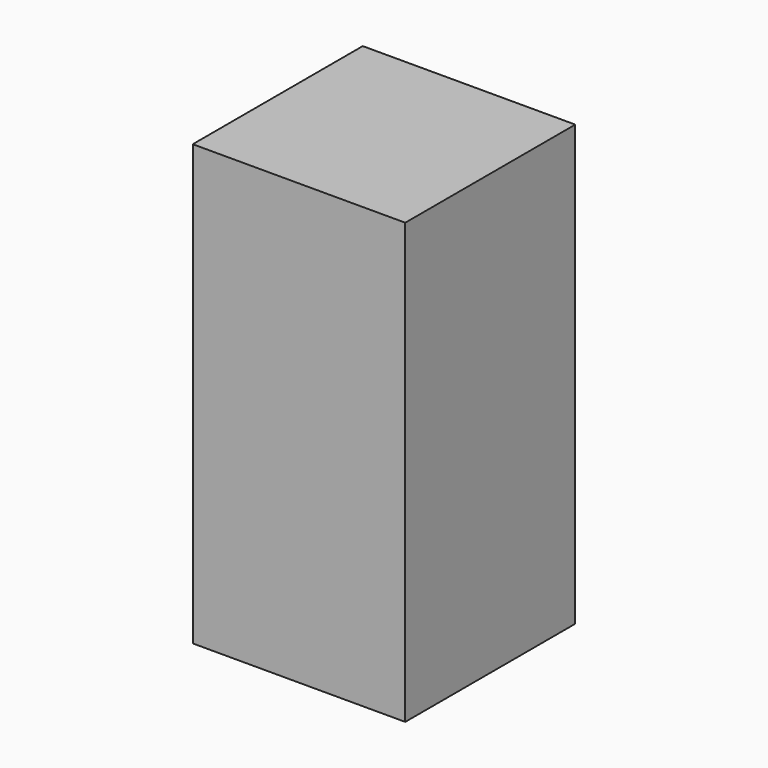
from build123d import *

# Parameters (mm, degrees)
F0_W     = 1.5
F0_H     = 1.5
F0_H_2   = 437
F0_W_2   = 437
F1_DEPTH = 910
F2_W     = 437
F2_H     = 437
F3_DEPTH = 1.5


with BuildPart() as f1:
    # F0 (on Top) → F1 (new body)
    with BuildSketch(Plane.XY):
        with Locations((-199.234958, -52.524721)):
            Rectangle(F0_W, F0_H)
        with Locations((239.265042, 385.975279)):
            Rectangle(F0_W, F0_H)
        Polygon((238.515042, -51.774721), (238.515042, -53.274721), (240.015042, -53.274721), (240.015042, 385.225279), (238.515042, 385.225279), align=None)
        Polygon((-199.984958, 386.725279), (-199.984958, 385.225279), (-198.484958, 385.225279), (238.515042, 385.225279), (238.515042, 386.725279), align=None)
        with Locations((-199.234958, 166.725279)):
            Rectangle(F0_W, F0_H_2)
        with Locations((20.015042, -52.524721)):
            Rectangle(F0_W_2, F0_H)
    extrude(amount=F1_DEPTH)

    # F2 (on face) → F3 (join)
    with BuildSketch(Plane.XY.offset(910)):
        with Locations((20.015042, 166.725279)):
            Rectangle(F2_W, F2_H)
    extrude(amount=-F3_DEPTH)


solid = f1.part
